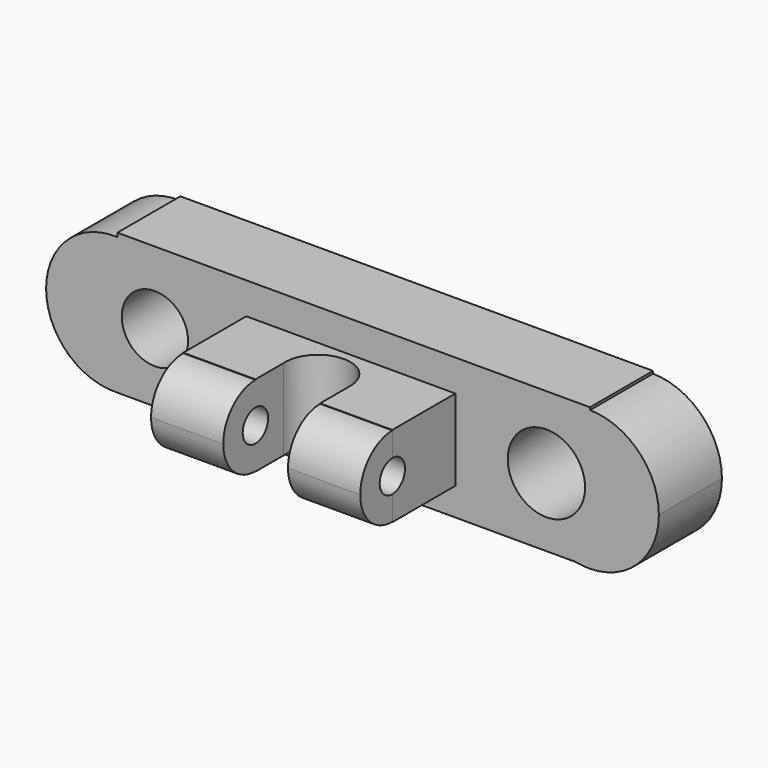
from build123d import *

# Parameters (mm, degrees)
F13_W     = 152.3095369339
F13_H     = 45.384734869
F1_DEPTH  = 25.4
F2_DEPTH  = 25.4
F4_R      = 10.680963323
F5_DEPTH  = 25.401
F6_R      = 12.4666506347
F15_DEPTH = 25.401
F3_W      = 67.3640072346
F3_H      = 26.1916220188
F16_DEPTH = 25.4
F17_DEPTH = 67.4096792936
F8_R      = 10.4571880182
F10_DEPTH = 36.4030317793
F11_R     = 5.1214106797
F12_DEPTH = 132.9530260163


with BuildPart() as f1:
    # F13 (on Front) → F1 (new body)
    with BuildSketch(Plane.XZ):
        with Locations((0.9222924709, 0.6138533354)):
            Rectangle(F13_W, F13_H)
    extrude(amount=F1_DEPTH)

    # F14 (on face) + F0 (on face) → F2 (join)
    with BuildSketch(Plane.XZ):
        with BuildLine():
            Line((-75.232475996, -22.0671208814), (-75.232475996, 22.0671208814))
            ThreePointArc((-75.232475996, 22.0671208814), (-98.2022533394, 0), (-75.232475996, -22.0671208814))
        make_face()
    with BuildSketch(Plane.XZ):
        with BuildLine():
            ThreePointArc((72.386937855, -22.0785140991), (91.0472381253, -17.3936843382), (99.270022399, 0))
            ThreePointArc((99.270022399, 0), (92.7885691568, 15.8037323084), (77.0770609379, 22.5056499815))
            Line((77.0770609379, 22.5056499815), (77.0770609379, -22.0785140991))
            Line((77.0770609379, -22.0785140991), (72.386937855, -22.0785140991))
        make_face()
    extrude(amount=F2_DEPTH)

    # F4 (on face) → F5 (cut, through all)
    with BuildSketch(Plane.XZ.offset(25.4)):
        with Locations((-63.1323754787, 0)):
            Circle(F4_R)
    extrude(amount=-F5_DEPTH, mode=Mode.SUBTRACT)

    # F6 (on face) → F15 (cut, through all)
    with BuildSketch(Plane.XZ.offset(25.4)):
        with Locations((63.0310773849, 0)):
            Circle(F6_R)
    extrude(amount=-F15_DEPTH, mode=Mode.SUBTRACT)

    # F3 (on face) → F16 (join)
    with BuildSketch(Plane.XZ.offset(25.4)):
        Rectangle(F3_W, F3_H)
    extrude(amount=F16_DEPTH)

    # F7 (on face) → F17 (join)
    with BuildSketch(Plane(origin=(-33.6820036173, 0, 0), x_dir=(0, -1, 0), z_dir=(-1, 0, 0))):
        with BuildLine():
            ThreePointArc((50.8, -12.9561868231), (59.961407561, -9.161407561), (63.7561868231, 0))
            ThreePointArc((63.7561868231, 0), (59.961407561, 9.161407561), (50.8, 12.9561868231))
            Line((50.8, 12.9561868231), (50.8, -12.9561868231))
        make_face()
    extrude(amount=-F17_DEPTH)

    # F8 (on face) + F9 (on face) → F10 (cut, through all)
    with BuildSketch(Plane(origin=(0, 0, -13.0958110094), x_dir=(1, 0, 0), z_dir=(0, 0, -1))):
        with Locations((0, 38.6807024479)):
            Circle(F8_R)
    with BuildSketch(Plane(origin=(0, 0, -13.0958110094), x_dir=(1, 0, 0), z_dir=(0, 0, -1))):
        with BuildLine():
            ThreePointArc((-10.4190511629, 39.5729771324), (0.2211320485, 49.1355521295), (10.4474613547, 39.1316264868))
            Line((10.4474613547, 39.1316264868), (10.4537252337, 39.1316264868))
            Line((10.4537252337, 39.1316264868), (10.4537252337, 65.8641159534))
            Line((10.4537252337, 65.8641159534), (-10.4190511629, 65.8641159534))
            Line((-10.4190511629, 65.8641159534), (-10.4190511629, 39.5729771324))
        make_face()
    extrude(amount=-F10_DEPTH, mode=Mode.SUBTRACT)

    # F11 (on face) → F12 (cut, through all)
    with BuildSketch(Plane(origin=(-33.6820036173, 0, 0), x_dir=(0, -1, 0), z_dir=(-1, 0, 0))):
        with Locations((50.8, 0)):
            Circle(F11_R)
    extrude(amount=-F12_DEPTH, mode=Mode.SUBTRACT)


solid = f1.part
